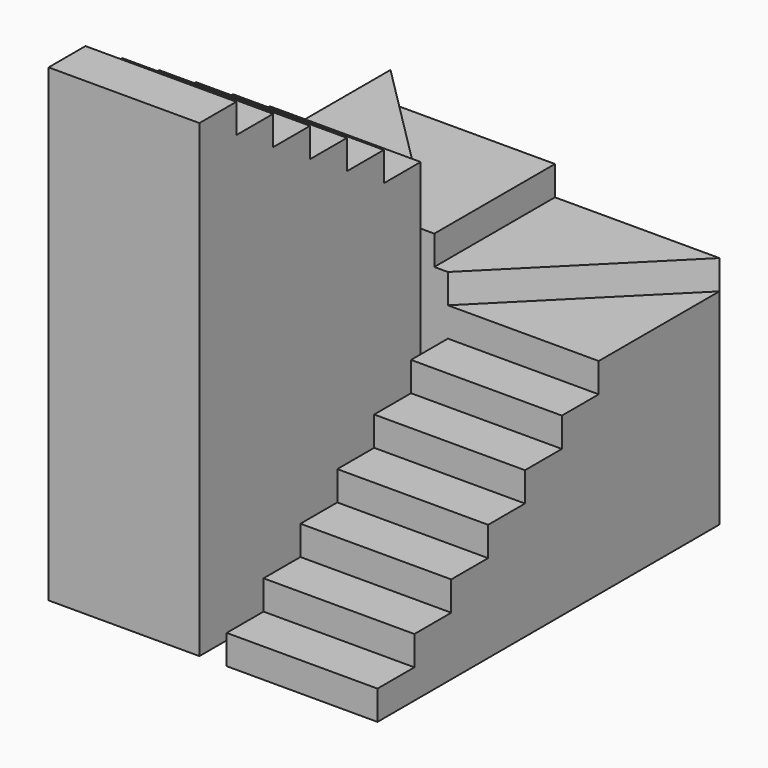
from build123d import *

# Parameters (mm, degrees)
F0_W      = 914.4
F0_H      = 279.4
F1_DEPTH  = 177.8
F2_DEPTH  = 355.6
F3_DEPTH  = 533.4
F4_DEPTH  = 711.2
F5_DEPTH  = 889
F6_DEPTH  = 1066.8
F7_DEPTH  = 1244.6
F8_DEPTH  = 1422.4
F9_DEPTH  = 1600.2
F10_DEPTH = 1778
F11_DEPTH = 1955.8
F12_DEPTH = 2133.6
F13_DEPTH = 2311.4
F14_DEPTH = 2489.2
F15_DEPTH = 2667
F16_DEPTH = 2844.8


with BuildPart() as f1:
    # F0 (on Top) → F1 (new body)
    with BuildSketch(Plane.XY):
        with Locations((622.3, -1536.7)):
            Rectangle(F0_W, F0_H)
    extrude(amount=F1_DEPTH)

    # F0 (on Top) → F2 (join)
    with BuildSketch(Plane.XY):
        with Locations((622.3, -1257.3)):
            Rectangle(F0_W, F0_H)
    extrude(amount=F2_DEPTH)

    # F0 (on Top) → F3 (join)
    with BuildSketch(Plane.XY):
        with Locations((622.3, -977.9)):
            Rectangle(F0_W, F0_H)
    extrude(amount=F3_DEPTH)

    # F0 (on Top) → F4 (join)
    with BuildSketch(Plane.XY):
        with Locations((622.3, -698.5)):
            Rectangle(F0_W, F0_H)
    extrude(amount=F4_DEPTH)

    # F0 (on Top) → F5 (join)
    with BuildSketch(Plane.XY):
        with Locations((622.3, -419.1)):
            Rectangle(F0_W, F0_H)
    extrude(amount=F5_DEPTH)

    # F0 (on Top) → F6 (join)
    with BuildSketch(Plane.XY):
        with Locations((622.3, -139.7)):
            Rectangle(F0_W, F0_H)
    extrude(amount=F6_DEPTH)

    # F0 (on Top) → F7 (join)
    with BuildSketch(Plane.XY):
        Polygon((1079.5, 914.4), (165.1, 0), (1079.5, 0), align=None)
    extrude(amount=F7_DEPTH)

    # F0 (on Top) → F8 (join)
    with BuildSketch(Plane.XY):
        Polygon((82.55, 914.4), (82.55, 0), (165.1, 0), (1079.5, 914.4), align=None)
    extrude(amount=F8_DEPTH)

    # F0 (on Top) → F9 (join)
    with BuildSketch(Plane.XY):
        Polygon((-914.4, 914.4), (0, 0), (82.55, 0), (82.55, 914.4), align=None)
    extrude(amount=F9_DEPTH)

    # F0 (on Top) → F10 (join)
    with BuildSketch(Plane.XY):
        Polygon((-914.4, 0), (0, 0), (-914.4, 914.4), align=None)
    extrude(amount=F10_DEPTH)

    # F0 (on Top) → F11 (join)
    with BuildSketch(Plane.XY):
        with Locations((-457.2, -139.7)):
            Rectangle(F0_W, F0_H)
    extrude(amount=F11_DEPTH)

    # F0 (on Top) → F12 (join)
    with BuildSketch(Plane.XY):
        with Locations((-457.2, -419.1)):
            Rectangle(F0_W, F0_H)
    extrude(amount=F12_DEPTH)

    # F0 (on Top) → F13 (join)
    with BuildSketch(Plane.XY):
        with Locations((-457.2, -698.5)):
            Rectangle(F0_W, F0_H)
    extrude(amount=F13_DEPTH)

    # F0 (on Top) → F14 (join)
    with BuildSketch(Plane.XY):
        with Locations((-457.2, -977.9)):
            Rectangle(F0_W, F0_H)
    extrude(amount=F14_DEPTH)

    # F0 (on Top) → F15 (join)
    with BuildSketch(Plane.XY):
        with Locations((-457.2, -1257.3)):
            Rectangle(F0_W, F0_H)
    extrude(amount=F15_DEPTH)

    # F0 (on Top) → F16 (join)
    with BuildSketch(Plane.XY):
        with Locations((-457.2, -1536.7)):
            Rectangle(F0_W, F0_H)
    extrude(amount=F16_DEPTH)


solid = f1.part
